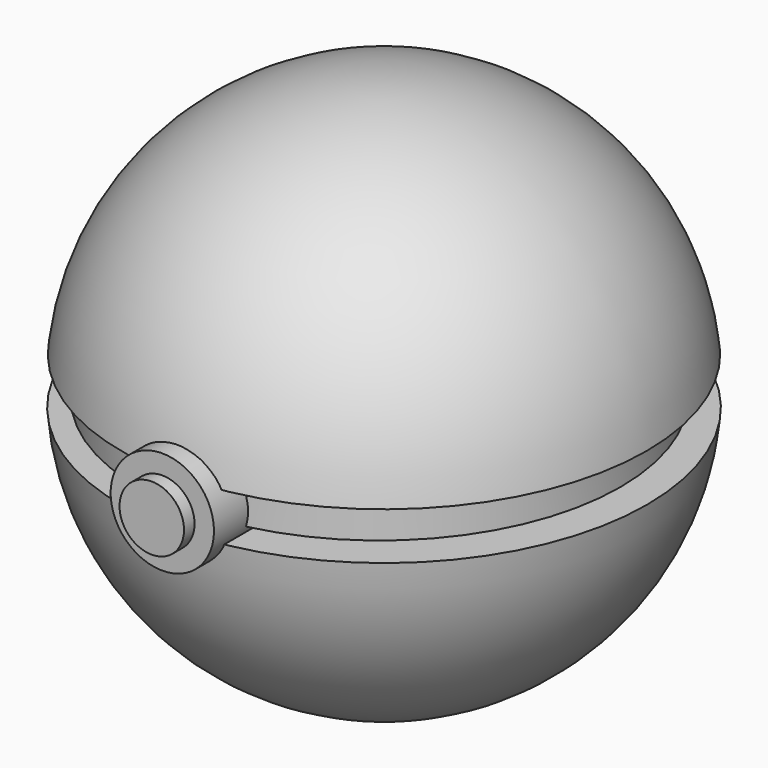
from build123d import *

# Parameters (mm, degrees)
F2_W     = 46.4146398008
F2_H     = 6.8516854662
F4_R     = 9.945994243
F6_DEPTH = 53.34
F5_R     = 6.2043861282
F7_DEPTH = 55.88


with BuildPart() as f1:
    # F0 (on Front) → F1 (revolve)
    with BuildSketch(Plane.XZ):
        with BuildLine():
            Line((0, 5.0835083239), (50.5450090822, 5.0835083239))
            ThreePointArc((50.5450090822, 5.0835083239), (34.0763684769, 37.6754709516), (0, 50.8))
            Line((0, 50.8), (0, 5.0835083239))
        make_face()
    revolve(axis=Axis((0, 0, -1.7681755126), (0, 0, -1)))


with BuildPart() as f1b:
    # F0 (on Front) → F1, piece 2 (revolve)
    with BuildSketch(Plane.XZ):
        with BuildLine():
            ThreePointArc((-50.6439764608, -3.9783976972), (-34.4857753065, -37.3010898166), (0, -50.8))
            Line((0, -50.8), (0, -3.9783976972))
            Line((0, -3.9783976972), (-50.6439764608, -3.9783976972))
        make_face()
    revolve(axis=Axis((0, 0, -1.7681755126), (0, 0, -1)))


with BuildPart() as f3:
    # F2 (on Front) → F3 (revolve)
    with BuildSketch(Plane.XZ):
        with Locations((22.3232302815, 0.7735773688)):
            Rectangle(F2_W, F2_H)
    revolve(axis=Axis((-0.8840896189, 0, 0.7735773688), (0, 0, -1)))


with BuildPart() as f6:
    # F4 (on Front) → F6 (new body)
    with BuildSketch(Plane.XZ):
        Circle(F4_R)
    extrude(amount=F6_DEPTH)


with BuildPart() as f7:
    # F5 (on Front) → F7 (new body)
    with BuildSketch(Plane.XZ):
        Circle(F5_R)
    extrude(amount=F7_DEPTH)


solid = Compound([f1.part, f1b.part, f3.part, f6.part, f7.part])
